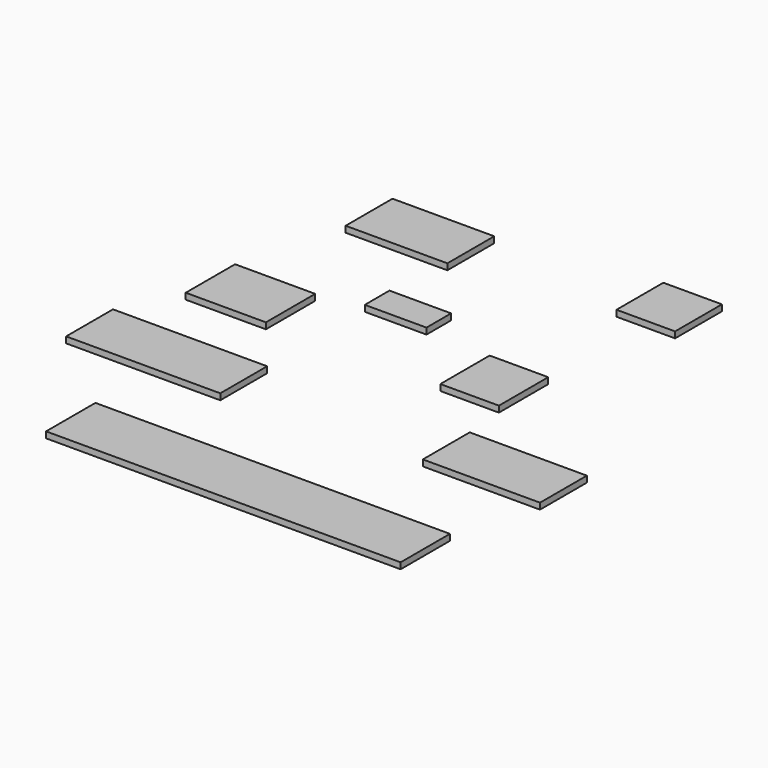
from build123d import *

# Parameters (mm, degrees)
F0_W      = 25.4
F0_H      = 12.7
F1_DEPTH  = 2.54
F2_W      = 24.13
F2_H      = 24.13
F3_DEPTH  = 2.54
F4_W      = 41.91
F4_H      = 24.13
F5_DEPTH  = 2.54
F6_W      = 48.26
F6_H      = 24.13
F7_DEPTH  = 2.54
F8_W      = 63.5
F8_H      = 24.13
F9_DEPTH  = 2.54
F10_W     = 24.13
F10_H     = 25.4
F11_DEPTH = 2.54
F12_W     = 33.02
F12_H     = 25.4
F13_DEPTH = 2.54
F14_W     = 146.05
F14_H     = 25.4
F15_DEPTH = 2.54


with BuildPart() as f1:
    # F0 (on Top) → F1 (new body)
    with BuildSketch(Plane.XY):
        with Locations((-11.319451, -6.35)):
            Rectangle(F0_W, F0_H)
    extrude(amount=F1_DEPTH)


with BuildPart() as f3:
    # F2 (on Top) → F3 (new body)
    with BuildSketch(Plane.XY):
        with Locations((53.411093, 47.259617)):
            Rectangle(F2_W, F2_H)
    extrude(amount=F3_DEPTH)


with BuildPart() as f5:
    # F4 (on Top) → F5 (new body)
    with BuildSketch(Plane.XY):
        with Locations((-42.298781, 38.535358)):
            Rectangle(F4_W, F4_H)
    extrude(amount=F5_DEPTH)


with BuildPart() as f7:
    # F6 (on Top) → F7 (new body)
    with BuildSketch(Plane.XY):
        with Locations((81.962567, -73.064856)):
            Rectangle(F6_W, F6_H)
    extrude(amount=F7_DEPTH)


with BuildPart() as f9:
    # F8 (on Top) → F9 (new body)
    with BuildSketch(Plane.XY):
        with Locations((-53.561282, -77.812772)):
            Rectangle(F8_W, F8_H)
    extrude(amount=F9_DEPTH)


with BuildPart() as f11:
    # F10 (on Top) → F11 (new body)
    with BuildSketch(Plane.XY):
        with Locations((41.481894, -27.902153)):
            Rectangle(F10_W, F10_H)
    extrude(amount=F11_DEPTH)


with BuildPart() as f13:
    # F12 (on Top) → F13 (new body)
    with BuildSketch(Plane.XY):
        with Locations((-57.753773, -29.39461)):
            Rectangle(F12_W, F12_H)
    extrude(amount=F13_DEPTH)


with BuildPart() as f15:
    # F14 (on Top) → F15 (new body)
    with BuildSketch(Plane.XY):
        with Locations((24.00967, -132.874116)):
            Rectangle(F14_W, F14_H)
    extrude(amount=F15_DEPTH)


solid = Compound([f1.part, f3.part, f5.part, f7.part, f9.part, f11.part, f13.part, f15.part])
